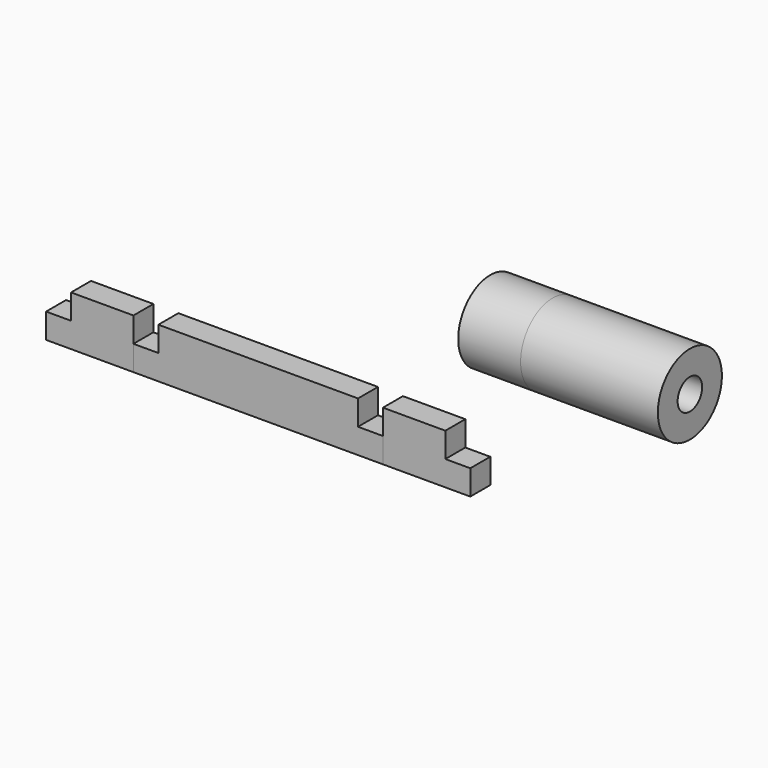
from build123d import *

# Parameters (mm, degrees)
F1_DEPTH = 4
F2_DEPTH = 4
F3_R     = 6.419793
F3_R_2   = 2.456127
F4_DEPTH = 32
F5_DEPTH = 10


with BuildPart() as f1:
    # F0 (on Front) → F1 (new body)
    with BuildSketch(Plane.XZ):
        Polygon((-14, 0), (0, 0), (0, 4), (-4, 4), (-4, 8), (-14, 8), (-14, 4), align=None)
        Polygon((-54, 0), (-14, 0), (-14, 4), (-18, 4), (-18, 8), (-50, 8), (-50, 4), (-54, 4), align=None)
        Polygon((-68, 0), (-54, 0), (-54, 4), (-54, 8), (-64, 8), (-64, 4), (-68, 4), align=None)
    extrude(amount=F1_DEPTH)


with BuildPart() as f2:
    # F0 (on Front) → F2 (new body)
    with BuildSketch(Plane.XZ):
        Polygon((-54, 0), (-14, 0), (-14, 4), (-18, 4), (-18, 8), (-50, 8), (-50, 4), (-54, 4), align=None)
    extrude(amount=F2_DEPTH)


with BuildPart() as f4:
    # F3 (on Right) → F4 (new body)
    with BuildSketch(Plane.YZ):
        with Locations((0, 23.232248)):
            Circle(F3_R)
        with Locations((0, 23.232248)):
            Circle(F3_R_2, mode=Mode.SUBTRACT)
    extrude(amount=F4_DEPTH)


with BuildPart() as f5:
    # F3 (on Right) → F5 (new body)
    with BuildSketch(Plane.YZ):
        with Locations((0, 23.232248)):
            Circle(F3_R)
        with Locations((0, 23.232248)):
            Circle(F3_R_2, mode=Mode.SUBTRACT)
    extrude(amount=F5_DEPTH)


solid = Compound([f1.part, f2.part, f4.part, f5.part])
